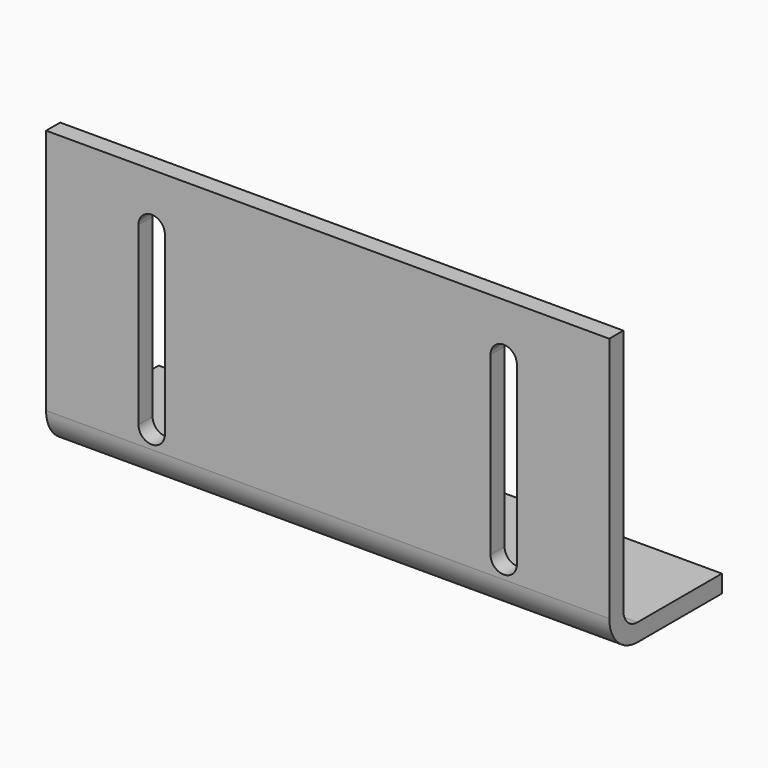
from build123d import *

# Parameters (mm, degrees)
F1_DEPTH = 203.2
F3_DEPTH = 6.351


with BuildPart() as f1:
    # F0 (on Right) → F1 (new body)
    with BuildSketch(Plane.YZ):
        with BuildLine():
            Line((0, 95.25), (-6.35, 95.25))
            Line((-6.35, 95.25), (-6.35, 6.35))
            ThreePointArc((-6.35, 6.35), (-2.630256, -2.630256), (6.35, -6.35))
            Line((6.35, -6.35), (44.45, -6.35))
            Line((44.45, -6.35), (44.45, 0))
            Line((44.45, 0), (6.35, 0))
            ThreePointArc((6.35, 0), (1.859872, 1.859872), (0, 6.35))
            Line((0, 6.35), (0, 95.25))
        make_face()
    extrude(amount=F1_DEPTH)

    # F2 (on face) → F3 (cut, through all)
    with BuildSketch(Plane(origin=(0, 0, 0), x_dir=(-1, 0, 0), z_dir=(0, 1, 0))):
        with BuildLine():
            Line((-160.3375, 12.7), (-160.3375, 76.2))
            ThreePointArc((-160.3375, 76.2), (-165.1, 80.9625), (-169.8625, 76.2))
            Line((-169.8625, 76.2), (-169.8625, 12.7))
            ThreePointArc((-169.8625, 12.7), (-165.1, 7.9375), (-160.3375, 12.7))
        make_face()
        with BuildLine():
            Line((-33.3375, 12.7), (-33.3375, 76.2))
            ThreePointArc((-33.3375, 76.2), (-38.1, 80.9625), (-42.8625, 76.2))
            Line((-42.8625, 76.2), (-42.8625, 12.7))
            ThreePointArc((-42.8625, 12.7), (-38.1, 7.9375), (-33.3375, 12.7))
        make_face()
    extrude(amount=-F3_DEPTH, mode=Mode.SUBTRACT)


solid = f1.part
